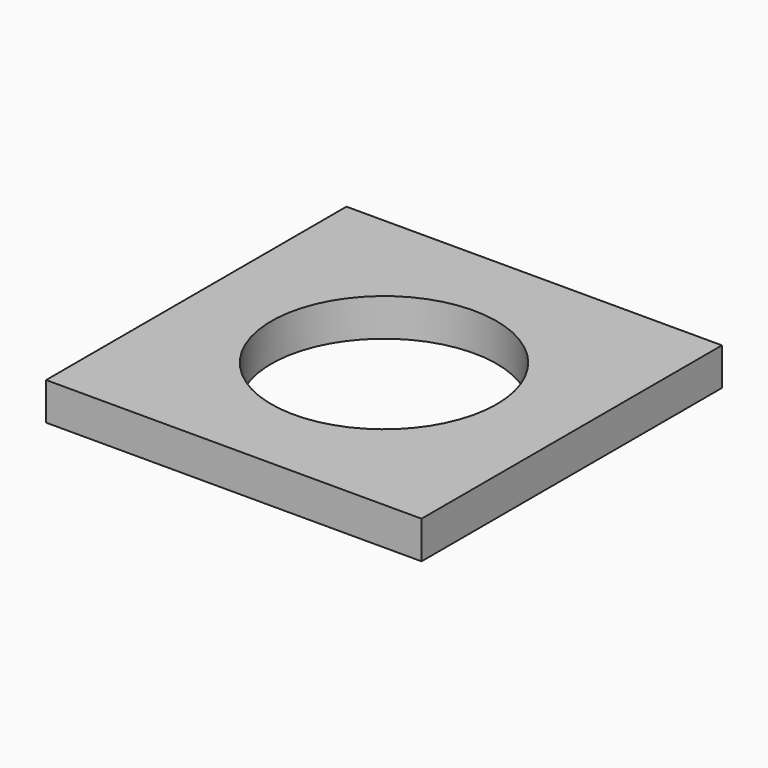
from build123d import *

# Parameters (mm, degrees)
CYLINDER_R     = 6
CYLINDER_DEPTH = 10
BOX_W          = 20
BOX_H          = 20
BOX_DEPTH      = 2


with BuildPart() as obj1:
    # Cylinder → Cylinder (new body)
    with BuildSketch(Plane.XY.offset(-3)):
        Circle(CYLINDER_R)
    extrude(amount=CYLINDER_DEPTH)


with BuildPart() as taladro:
    # Box → Box (new body)
    with BuildSketch(Plane(origin=(-10, -10, 0), x_dir=(1, 0, 0), z_dir=(0, 0, 1))):
        with Locations((10, 10)):
            Rectangle(BOX_W, BOX_H)
    extrude(amount=BOX_DEPTH)

    # Cut: cut obj1
    add(obj1.part, mode=Mode.SUBTRACT)


solid = taladro.part
